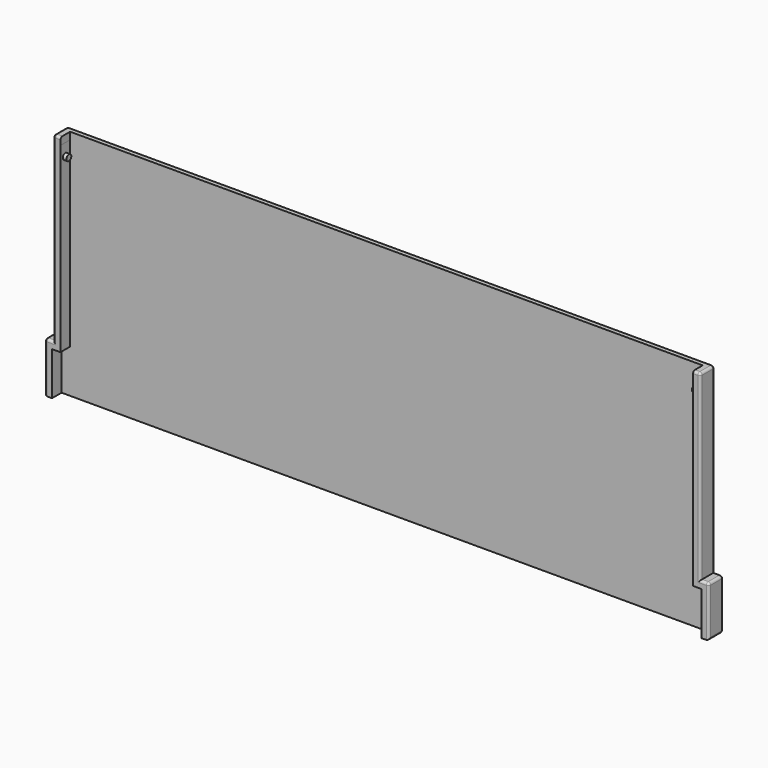
from build123d import *

# Parameters (mm, degrees)
F1_DEPTH = 5
F5_DEPTH = 7.5
F6_DEPTH = 2.5
F7_DEPTH = 5
F3_R     = 1.25
F4_R     = 1.25
F8_DEPTH = 1.5
F9_DEPTH = 1.5
F10_R    = 1


with BuildPart() as f1:
    # F0 (on Front) → F1 (new body)
    with BuildSketch(Plane.XZ):
        Polygon((-135.5, 0), (0, 0), (135.5, 0), (135.5, 18), (132, 18), (132, 160), (-132, 160), (-132, 18), (-135.5, 18), align=None)
    extrude(amount=-F1_DEPTH)

    # F2 (on face) → F5 (join)
    with BuildSketch(Plane.XZ):
        Polygon((-138.55, 0), (-135.55, 0), (-135.55, 18.05), (-132.05, 18.05), (-132.05, 94.05), (132.05, 94.05), (132.05, 18.05), (135.55, 18.05), (135.55, 0), (138.55, 0), (138.55, 21.05), (135, 21.05), (135, 97.05), (-135, 97.05), (-135, 21.05), (-138.55, 21.05), align=None)
    extrude(amount=-F5_DEPTH)

    # F6 (add): a face of the model
    f6_faces = [f1.faces().sort_by_distance(p)[0] for p in [
        (0, 5, 46.8330099538),
    ]]
    extrude(f6_faces, amount=F6_DEPTH)

    # F0 (on Front) → F7 (cut)
    with BuildSketch(Plane.XZ):
        Polygon((-135.5, 0), (0, 0), (135.5, 0), (135.5, 18), (132, 18), (132, 160), (-132, 160), (-132, 18), (-135.5, 18), align=None)
    extrude(amount=-F7_DEPTH, mode=Mode.SUBTRACT)

    # F3 (on face) + F4 (on face) → F8 (join)
    with BuildSketch(Plane.YZ.offset(132)):
        with Locations((2.5, 89)):
            Circle(F3_R)
    with BuildSketch(Plane(origin=(-132, 0, 0), x_dir=(0, -1, 0), z_dir=(-1, 0, 0))):
        with Locations((-2.5, 89)):
            Circle(F4_R)
    extrude(amount=F8_DEPTH, dir=(1, 0, 0))

    # F3 (on face) + F4 (on face) → F9 (join)
    with BuildSketch(Plane.YZ.offset(132)):
        with Locations((2.5, 89)):
            Circle(F3_R)
    with BuildSketch(Plane(origin=(-132, 0, 0), x_dir=(0, -1, 0), z_dir=(-1, 0, 0))):
        with Locations((-2.5, 89)):
            Circle(F4_R)
    extrude(amount=-F9_DEPTH, dir=(1, 0, 0))

    # F10
    f10_edges = [f1.edges().sort_by_distance(p)[0] for p in [
        (-135, 0, 59.05),
        (-135, 7.5, 59.05),
        (135, 7.5, 59.05),
        (135, 0, 59.05),
        (135, 3.75, 97.05),
        (0, 7.5, 97.05),
        (-135, 3.75, 97.05),
        (-136.775, 0, 21.05),
        (-136.775, 7.5, 21.05),
        (-138.55, 3.75, 21.05),
        (-138.55, 0, 10.525),
        (-138.55, 7.5, 10.525),
        (-138.55, 3.75, 0),
        (0, 7.5, 0),
        (-137.05, 7.5, 0),
        (137.05, 7.5, 0),
        (138.55, 7.5, 10.525),
        (138.55, 3.75, 0),
        (138.55, 0, 10.525),
        (138.55, 3.75, 21.05),
        (136.775, 0, 21.05),
        (136.775, 7.5, 21.05),
        (133.5, 0, 97.05),
        (-133.5, 0, 97.05),
    ]]
    fillet(f10_edges, radius=F10_R)


solid = f1.part
